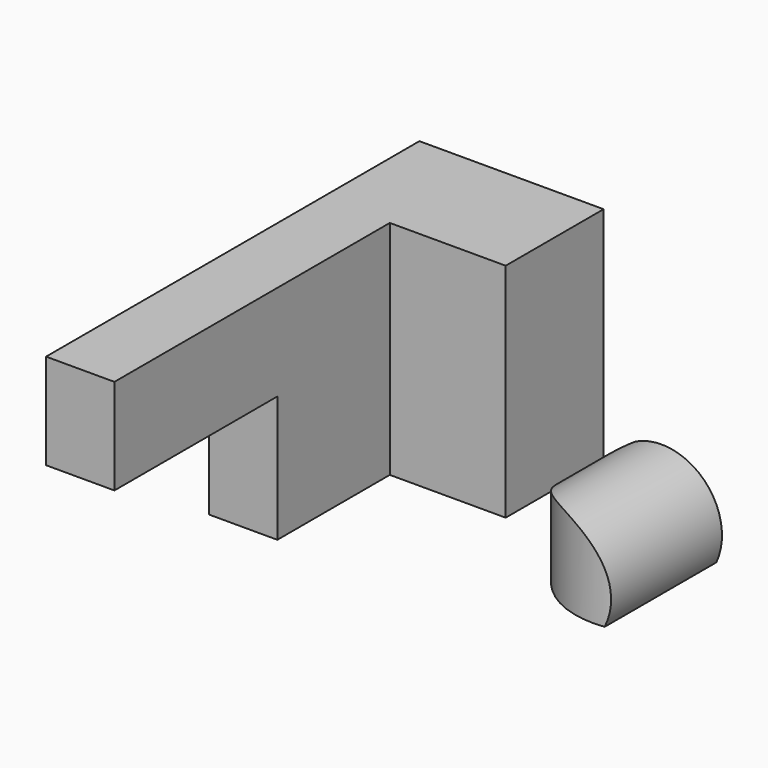
from build123d import *

# Parameters (mm, degrees)
F1_DEPTH = 11.684
F0_W     = 20.927958
F0_H     = 37.93193
F2_DEPTH = 31.496
F3_R     = 14.966366
F4_DEPTH = 25.4
F5_R     = 6.323448
F5_R_2   = 10.334478
F6_DEPTH = 25.4


with BuildPart() as f1:
    # F0 (on Right) → F1 (new body)
    with BuildSketch(Plane.YZ):
        Polygon((5.524853, 29.268742), (-53.335037, 29.268742), (-53.335037, 12.918772), (-18.5096, 12.918772), (-18.5096, -8.663188), (5.524853, -8.663188), align=None)
    extrude(amount=F1_DEPTH)

    # F0 (on Right) → F2 (join)
    with BuildSketch(Plane.YZ):
        with Locations((15.988832, 10.302777)):
            Rectangle(F0_W, F0_H)
    extrude(amount=F2_DEPTH)


with BuildPart() as f4:
    # F3 (on Top) → F4 (new body)
    with BuildSketch(Plane.XY):
        with Locations((70.037141, -9.012804)):
            Circle(F3_R)
    extrude(amount=F4_DEPTH)

    # F5 (on Front) → F6 (intersect)
    with BuildSketch(Plane.XZ):
        with Locations((82.932055, 39.263789)):
            Circle(F5_R)
        with Locations((62.569559, 4.386574)):
            Circle(F5_R_2)
    extrude(amount=F6_DEPTH, mode=Mode.INTERSECT)


solid = Compound([f1.part, f4.part])
